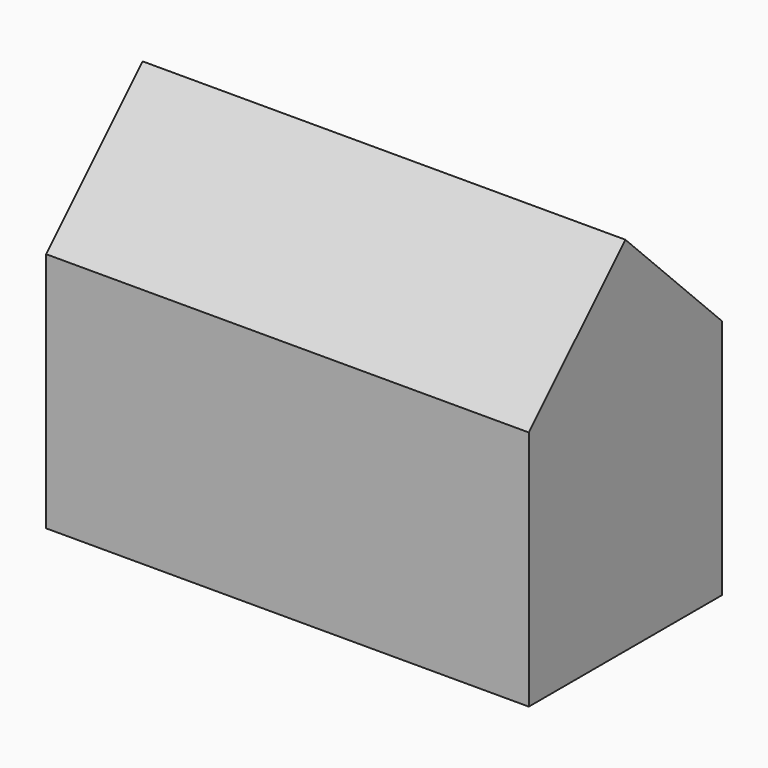
from build123d import *

# Parameters (mm, degrees)
BOX001_W               = 20
BOX001_H               = 7.07
BOX001_DEPTH           = 7.07
BOX001_PLACEMENT_ANGLE = 44.999934
BOX_W                  = 20
BOX_H                  = 10
BOX_DEPTH              = 10


with BuildPart() as base:
    # Box001 → Box001 (new body)
    with BuildSketch(Plane.XY):
        with Locations((10, 3.535)):
            Rectangle(BOX001_W, BOX001_H)
    extrude(amount=BOX001_DEPTH)


with BuildPart() as base_1:
    # Box001 placement: moved
    add(base.part.moved(Location((-10, -5, 10))).rotate(Axis((-10, -5, 10), (-1, 0, 0)), BOX001_PLACEMENT_ANGLE))


with BuildPart() as fusion:
    # Box → Box (new body)
    with BuildSketch(Plane(origin=(-10, -5, 0), x_dir=(1, 0, 0), z_dir=(0, 0, 1))):
        with Locations((10, 5)):
            Rectangle(BOX_W, BOX_H)
    extrude(amount=BOX_DEPTH)

    # Fusion: union Base
    add(base_1.part)


solid = fusion.part
